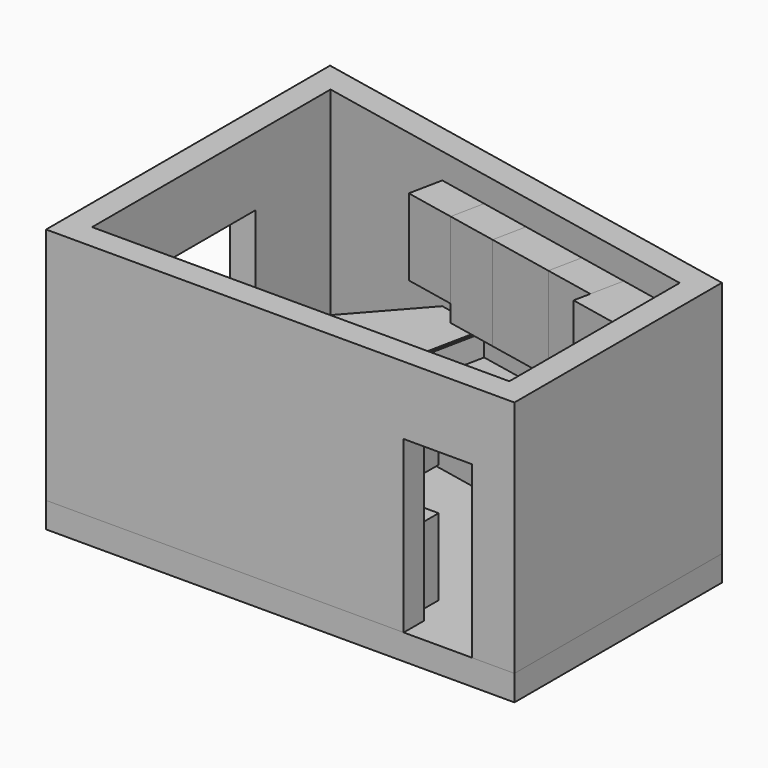
from build123d import *

# Parameters (mm, degrees)
F0_W      = 300
F0_H      = 1500
F0_W_2    = 800
F0_H_2    = 300
F1_DEPTH  = 300
F2_DEPTH  = 2800
F3_DEPTH  = 2000
F4_W      = 1500
F4_H      = 1200
F5_DEPTH  = 300
F7_DEPTH  = 2500
F8_DEPTH  = 1170
F6_W      = 600
F6_H      = 400
F9_DEPTH  = 900
F10_DEPTH = 900
F11_DEPTH = 900
F12_DEPTH = 900
F13_START = -1400
F13_DEPTH = 1100
F14_START = -1400
F14_DEPTH = 1100
F15_START = -1400
F15_DEPTH = 1100
F16_START = -1400
F16_DEPTH = 1100
F17_DEPTH = 900
F18_DEPTH = 900
F19_DEPTH = 910
F20_DEPTH = 1170
F21_START = -1190
F21_DEPTH = 10
F22_START = -1400
F22_DEPTH = 1100
F23_START = -1400
F23_DEPTH = 1100
F24_START = -1400
F24_DEPTH = 1100
F25_START = -1600
F25_DEPTH = 900


with BuildPart() as f1:
    # F0 (on Top) → F1 (new body)
    with BuildSketch(Plane.XY):
        with Locations((-2599.4897427832, 500)):
            Rectangle(F0_W, F0_H)
        Polygon((-2449.4897427832, -250), (-2449.4897427832, -1250), (1449.4897427832, -1250), (2249.4897427832, -1250), (2449.4897427832, -1250), (2449.4897427832, 1250), (-2449.4897427832, 2250), (-2449.4897427832, 1250), align=None)
        Polygon((2449.4897427832, -1250), (2249.4897427832, -1250), (2249.4897427832, -1550), (2749.4897427832, -1550), (2749.4897427832, 1494.9489742783), (-2749.4897427832, 2617.4234614175), (-2749.4897427832, 1250), (-2449.4897427832, 1250), (-2449.4897427832, 2250), (2449.4897427832, 1250), align=None)
        with Locations((1849.4897427832, -1400)):
            Rectangle(F0_W_2, F0_H_2)
        Polygon((1449.4897427832, -1250), (-2449.4897427832, -1250), (-2449.4897427832, -250), (-2749.4897427832, -250), (-2749.4897427832, -1550), (1449.4897427832, -1550), align=None)
    extrude(amount=-F1_DEPTH)


with BuildPart() as f2:
    # F0 (on Top) → F2 (new body)
    with BuildSketch(Plane.XY):
        Polygon((1449.4897427832, -1250), (-2449.4897427832, -1250), (-2449.4897427832, -250), (-2749.4897427832, -250), (-2749.4897427832, -1550), (1449.4897427832, -1550), align=None)
        with Locations((-2599.4897427832, 500)):
            Rectangle(F0_W, F0_H)
        Polygon((2449.4897427832, -1250), (2249.4897427832, -1250), (2249.4897427832, -1550), (2749.4897427832, -1550), (2749.4897427832, 1494.9489742783), (-2749.4897427832, 2617.4234614175), (-2749.4897427832, 1250), (-2449.4897427832, 1250), (-2449.4897427832, 2250), (2449.4897427832, 1250), align=None)
        with Locations((1849.4897427832, -1400)):
            Rectangle(F0_W_2, F0_H_2)
    extrude(amount=F2_DEPTH)

    # F0 (on Top) → F3 (cut)
    with BuildSketch(Plane.XY):
        with Locations((1849.4897427832, -1400)):
            Rectangle(F0_W_2, F0_H_2)
    extrude(amount=F3_DEPTH, mode=Mode.SUBTRACT)

    # F4 (on face) → F5 (cut, through all)
    with BuildSketch(Plane(origin=(-2749.4897427832, 0, 0), x_dir=(0, -1, 0), z_dir=(-1, 0, 0))):
        with Locations((-400, 1400)):
            Rectangle(F4_W, F4_H)
    extrude(amount=-F5_DEPTH, mode=Mode.SUBTRACT)


with BuildPart() as f7:
    # F6 (on face) → F7 (new body)
    with BuildSketch(Plane(origin=(0, 0, 0), x_dir=(1, 0, 0), z_dir=(0, 0, -1))):
        Polygon((1665.6530250926, -1410), (2253.5305633605, -1290), (2173.5305633605, -898.0816411547), (1585.6530250926, -1018.0816411547), align=None)
        Polygon((1585.6530250926, -1018.0816411547), (2173.5305633605, -898.0816411547), (2133.5305633605, -702.122461732), (1545.6530250926, -822.122461732), align=None)
    extrude(amount=-F7_DEPTH)


with BuildPart() as f8:
    # F6 (on face) → F8 (new body)
    with BuildSketch(Plane(origin=(0, 0, 0), x_dir=(1, 0, 0), z_dir=(0, 0, -1))):
        with BuildLine():
            Line((-1121.8163074019, -754.2449234641), (-1001.8163074019, -1342.122461732))
            ThreePointArc((-1001.8163074019, -1342.122461732), (-657.0583058571, -1133.7182426843), (-521.8163074019, -754.2449234641))
            ThreePointArc((-521.8163074019, -754.2449234641), (-524.8546155989, -693.939546261), (-533.938769134, -634.2449234641))
            Line((-533.938769134, -634.2449234641), (-1121.8163074019, -754.2449234641))
        make_face()
        with BuildLine():
            Line((-1001.8163074019, -1342.122461732), (-413.938769134, -1222.122461732))
            Line((-413.938769134, -1222.122461732), (-533.938769134, -634.2449234641))
            ThreePointArc((-533.938769134, -634.2449234641), (-524.8546155989, -693.939546261), (-521.8163074019, -754.2449234641))
            ThreePointArc((-521.8163074019, -754.2449234641), (-657.0583058571, -1133.7182426843), (-1001.8163074019, -1342.122461732))
        make_face()
    extrude(amount=-F8_DEPTH)


with BuildPart() as f9:
    # F6 (on face) → F9 (new body)
    with BuildSketch(Plane(origin=(0, 0, 0), x_dir=(1, 0, 0), z_dir=(0, 0, -1))):
        with Locations((999.4897427832, 1050)):
            Rectangle(F6_W, F6_H)
    extrude(amount=-F9_DEPTH)


with BuildPart() as f10:
    # F6 (on face) → F10 (new body)
    with BuildSketch(Plane(origin=(0, 0, 0), x_dir=(1, 0, 0), z_dir=(0, 0, -1))):
        with Locations((399.4897427832, 1050)):
            Rectangle(F6_W, F6_H)
    extrude(amount=-F10_DEPTH)


with BuildPart() as f11:
    # F6 (on face) → F11 (new body)
    with BuildSketch(Plane(origin=(0, 0, 0), x_dir=(1, 0, 0), z_dir=(0, 0, -1))):
        with Locations((-200.5102572168, 1050)):
            Rectangle(F6_W, F6_H)
    extrude(amount=-F11_DEPTH)


with BuildPart() as f12:
    # F6 (on face) → F12 (new body)
    with BuildSketch(Plane(origin=(0, 0, 0), x_dir=(1, 0, 0), z_dir=(0, 0, -1))):
        with Locations((-800.5102572168, 1050)):
            Rectangle(F6_W, F6_H)
    extrude(amount=-F12_DEPTH)


with BuildPart() as f13:
    # F6 (on face) → F13 (new body)
    with BuildSketch(Plane(origin=(0, 0, 0), x_dir=(1, 0, 0), z_dir=(0, 0, -1)).offset(F13_START)):
        with Locations((999.4897427832, 1050)):
            Rectangle(F6_W, F6_H)
    extrude(amount=-F13_DEPTH)


with BuildPart() as f14:
    # F6 (on face) → F14 (new body)
    with BuildSketch(Plane(origin=(0, 0, 0), x_dir=(1, 0, 0), z_dir=(0, 0, -1)).offset(F14_START)):
        with Locations((399.4897427832, 1050)):
            Rectangle(F6_W, F6_H)
    extrude(amount=-F14_DEPTH)


with BuildPart() as f15:
    # F6 (on face) → F15 (new body)
    with BuildSketch(Plane(origin=(0, 0, 0), x_dir=(1, 0, 0), z_dir=(0, 0, -1)).offset(F15_START)):
        with Locations((-200.5102572168, 1050)):
            Rectangle(F6_W, F6_H)
    extrude(amount=-F15_DEPTH)


with BuildPart() as f16:
    # F6 (on face) → F16 (new body)
    with BuildSketch(Plane(origin=(0, 0, 0), x_dir=(1, 0, 0), z_dir=(0, 0, -1)).offset(F16_START)):
        with Locations((-800.5102572168, 1050)):
            Rectangle(F6_W, F6_H)
    extrude(amount=-F16_DEPTH)


with BuildPart() as f17:
    # F6 (on face) → F17 (new body)
    with BuildSketch(Plane(origin=(0, 0, 0), x_dir=(1, 0, 0), z_dir=(0, 0, -1))):
        Polygon((997.7754868246, -1138.0816411547), (1585.6530250926, -1018.0816411547), (1545.6530250926, -822.122461732), (957.7754868246, -942.122461732), align=None)
        Polygon((1077.7754868246, -1530), (1665.6530250926, -1410), (1585.6530250926, -1018.0816411547), (997.7754868246, -1138.0816411547), align=None)
    extrude(amount=-F17_DEPTH)


with BuildPart() as f18:
    # F6 (on face) → F18 (new body)
    with BuildSketch(Plane(origin=(0, 0, 0), x_dir=(1, 0, 0), z_dir=(0, 0, -1))):
        Polygon((293.938769134, -1690), (1077.7754868246, -1530), (997.7754868246, -1138.0816411547), (213.938769134, -1298.0816411547), align=None)
        Polygon((213.938769134, -1298.0816411547), (997.7754868246, -1138.0816411547), (957.7754868246, -942.122461732), (173.938769134, -1102.122461732), align=None)
    extrude(amount=-F18_DEPTH)


with BuildPart() as f19:
    # F6 (on face) → F19 (new body)
    with BuildSketch(Plane(origin=(0, 0, 0), x_dir=(1, 0, 0), z_dir=(0, 0, -1))):
        Polygon((-293.938769134, -1810), (293.938769134, -1690), (213.938769134, -1298.0816411547), (-373.938769134, -1418.0816411547), align=None)
        Polygon((-373.938769134, -1418.0816411547), (213.938769134, -1298.0816411547), (173.938769134, -1102.122461732), (-413.938769134, -1222.122461732), align=None)
    extrude(amount=-F19_DEPTH)


with BuildPart() as f20:
    # F6 (on face) → F20 (new body, through all)
    with BuildSketch(Plane(origin=(0, 0, 0), x_dir=(1, 0, 0), z_dir=(0, 0, -1))):
        Polygon((-881.8163074019, -1930), (-293.938769134, -1810), (-373.938769134, -1418.0816411547), (-961.8163074019, -1538.0816411547), align=None)
        Polygon((-961.8163074019, -1538.0816411547), (-373.938769134, -1418.0816411547), (-413.938769134, -1222.122461732), (-1001.8163074019, -1342.122461732), align=None)
    extrude(amount=-F20_DEPTH)


with BuildPart() as f21:
    # F6 (on face) → F21 (new body)
    with BuildSketch(Plane(origin=(0, 0, 0), x_dir=(1, 0, 0), z_dir=(0, 0, -1)).offset(F21_START)):
        with BuildLine():
            ThreePointArc((-1570.9331898563, -1152.1067410522), (-1311.8320280818, -1323.3618059184), (-1001.8163074019, -1342.122461732))
            Line((-1001.8163074019, -1342.122461732), (-1121.8163074019, -754.2449234641))
            Line((-1121.8163074019, -754.2449234641), (-533.938769134, -634.2449234641))
            ThreePointArc((-533.938769134, -634.2449234641), (-1389.8813096484, -217.4571119681), (-1570.9331898563, -1152.1067410522))
        make_face()
        with BuildLine():
            Line((-1121.8163074019, -754.2449234641), (-1001.8163074019, -1342.122461732))
            ThreePointArc((-1001.8163074019, -1342.122461732), (-657.0583058571, -1133.7182426843), (-521.8163074019, -754.2449234641))
            ThreePointArc((-521.8163074019, -754.2449234641), (-524.8546155989, -693.939546261), (-533.938769134, -634.2449234641))
            Line((-533.938769134, -634.2449234641), (-1121.8163074019, -754.2449234641))
        make_face()
        with BuildLine():
            Line((-1001.8163074019, -1342.122461732), (-413.938769134, -1222.122461732))
            Line((-413.938769134, -1222.122461732), (-533.938769134, -634.2449234641))
            ThreePointArc((-533.938769134, -634.2449234641), (-524.8546155989, -693.939546261), (-521.8163074019, -754.2449234641))
            ThreePointArc((-521.8163074019, -754.2449234641), (-657.0583058571, -1133.7182426843), (-1001.8163074019, -1342.122461732))
        make_face()
        Polygon((-961.8163074019, -1538.0816411547), (-373.938769134, -1418.0816411547), (-413.938769134, -1222.122461732), (-1001.8163074019, -1342.122461732), align=None)
        Polygon((-881.8163074019, -1930), (-293.938769134, -1810), (-373.938769134, -1418.0816411547), (-961.8163074019, -1538.0816411547), align=None)
        with BuildLine():
            Line((-1188.0904773816, -1584.2696626899), (-961.8163074019, -1538.0816411547))
            Line((-961.8163074019, -1538.0816411547), (-1001.8163074019, -1342.122461732))
            ThreePointArc((-1001.8163074019, -1342.122461732), (-1311.8320280818, -1323.3618059184), (-1570.9331898563, -1152.1067410522))
            Line((-1570.9331898563, -1152.1067410522), (-1188.0904773816, -1584.2696626899))
        make_face()
        Polygon((-1188.0904773816, -1584.2696626899), (-881.8163074019, -1930), (-961.8163074019, -1538.0816411547), align=None)
    extrude(amount=-F21_DEPTH)


with BuildPart() as f22:
    # F6 (on face) → F22 (new body)
    with BuildSketch(Plane(origin=(0, 0, 0), x_dir=(1, 0, 0), z_dir=(0, 0, -1)).offset(F22_START)):
        Polygon((1077.7754868246, -1530), (1665.6530250926, -1410), (1585.6530250926, -1018.0816411547), (997.7754868246, -1138.0816411547), align=None)
    extrude(amount=-F22_DEPTH)


with BuildPart() as f23:
    # F6 (on face) → F23 (new body)
    with BuildSketch(Plane(origin=(0, 0, 0), x_dir=(1, 0, 0), z_dir=(0, 0, -1)).offset(F23_START)):
        Polygon((293.938769134, -1690), (1077.7754868246, -1530), (997.7754868246, -1138.0816411547), (213.938769134, -1298.0816411547), align=None)
    extrude(amount=-F23_DEPTH)


with BuildPart() as f24:
    # F6 (on face) → F24 (new body)
    with BuildSketch(Plane(origin=(0, 0, 0), x_dir=(1, 0, 0), z_dir=(0, 0, -1)).offset(F24_START)):
        Polygon((-293.938769134, -1810), (293.938769134, -1690), (213.938769134, -1298.0816411547), (-373.938769134, -1418.0816411547), align=None)
    extrude(amount=-F24_DEPTH)


with BuildPart() as f25:
    # F6 (on face) → F25 (new body)
    with BuildSketch(Plane(origin=(0, 0, 0), x_dir=(1, 0, 0), z_dir=(0, 0, -1)).offset(F25_START)):
        Polygon((-881.8163074019, -1930), (-293.938769134, -1810), (-373.938769134, -1418.0816411547), (-961.8163074019, -1538.0816411547), align=None)
    extrude(amount=-F25_DEPTH)


solid = Compound([f1.part, f2.part, f7.part, f8.part, f9.part, f10.part, f11.part, f12.part, f13.part, f14.part, f15.part, f16.part, f17.part, f18.part, f19.part, f20.part, f21.part, f22.part, f23.part, f24.part, f25.part])
